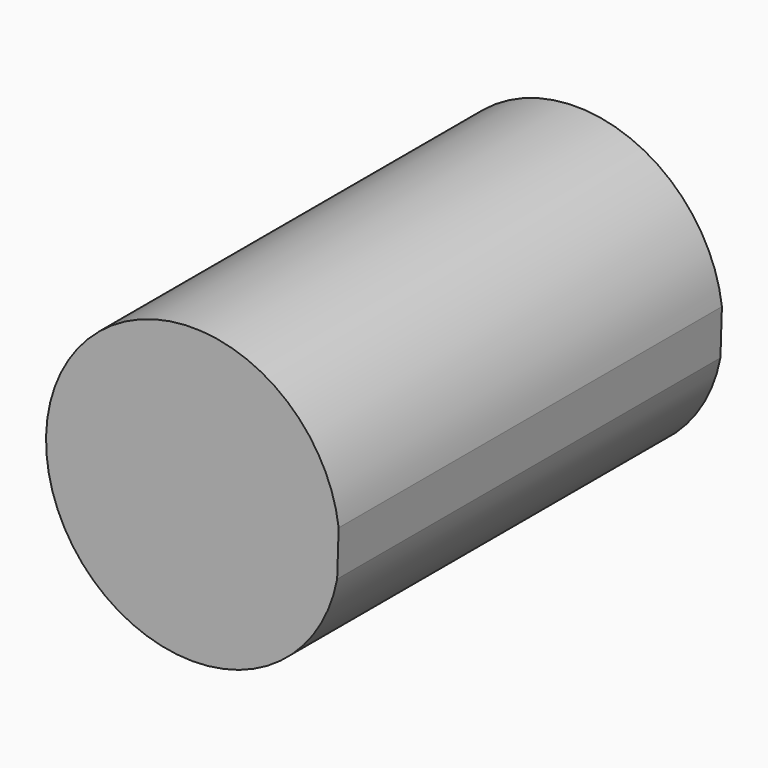
from build123d import *

# Parameters (mm, degrees)
F1_DEPTH = 76.2


with BuildPart() as f1:
    # F0 (on Front) → F1 (new body)
    with BuildSketch(Plane.XZ):
        with BuildLine():
            ThreePointArc((-82.286324, -18.450375), (-109.095501, 1.74963), (-128.414196, -25.701421))
            ThreePointArc((-128.414196, -25.701421), (-105.468065, -44.685953), (-82.521933, -25.701421))
            add(Edge.make_bspline(
                [(-82.286324, -18.450375), (-82.36486, -20.867391), (-82.443397, -23.284406), (-82.521933, -25.701421)],
                knots=[36.629684, 36.629684, 36.629684, 36.629684, 43.884556, 43.884556, 43.884556, 43.884556], degree=3))
        make_face()
    extrude(amount=F1_DEPTH)


solid = f1.part
